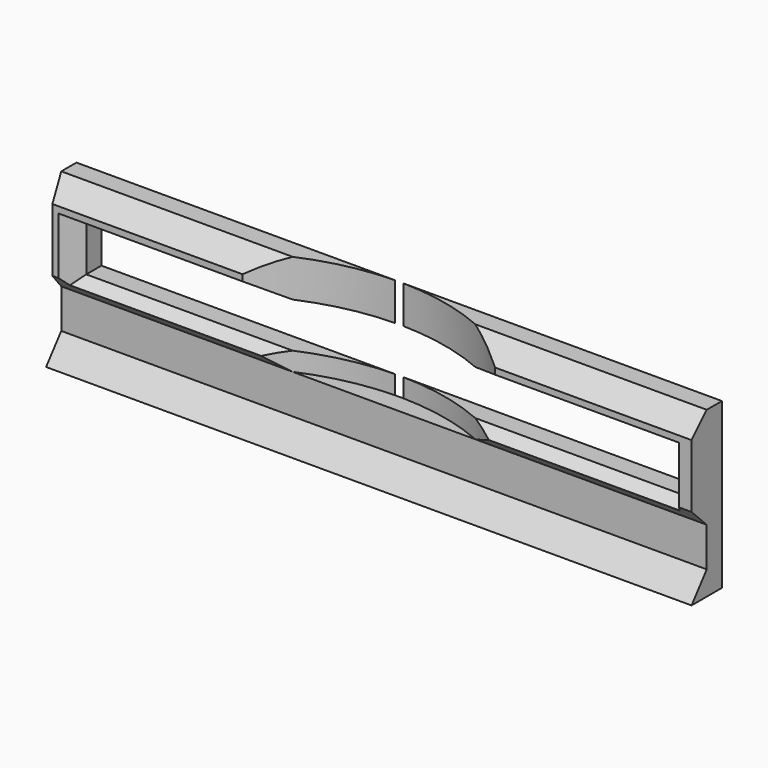
from build123d import *

# Parameters (mm, degrees)
PAD005_DEPTH       = 51
SKETCH018_W        = 11
SKETCH018_H        = 98
POCKET008_DEPTH    = 3
POCKET008_TAPER    = 33
SKETCH019_R        = 36.155756
POCKET009_DEPTH    = 16
CHAMFER003_SIZE2   = 1
CHAMFER003_SIZE    = 3
CHAMFER004_SIZE2   = 1
CHAMFER004_SIZE    = 3
POCKET008_FACE15_W = 94.103554
POCKET008_FACE15_H = 7.103554
POCKET010_DEPTH    = 5


with BuildPart() as part:
    # Sketch017 → Pad005 (new body, symmetric)
    with BuildSketch(Plane.YZ):
        Polygon((-74, 13), (-77, 13), (-80, 10), (-80, 8), (-80, 7.369175), (-80, 2.369175), (-80, 1), (-80, 0), (-77, -3), (-77, -9.20497), (-80, -13), (-74, -13), align=None)
    extrude(amount=PAD005_DEPTH, both=True)

    # Sketch018 (on Face10 of Pad005) → Pocket008 (cut)
    with BuildSketch(Plane(origin=(0, -80, 0), x_dir=(0, 0, -1), z_dir=(0, -1, 0))):
        with Locations((-3.5, 0)):
            Rectangle(SKETCH018_W, SKETCH018_H)
    extrude(amount=-POCKET008_DEPTH, taper=POCKET008_TAPER, mode=Mode.SUBTRACT)

    # Sketch019 (on Face9 of Pocket008) → Pocket009 (cut)
    with BuildSketch(Plane(origin=(0, 0, 13), x_dir=(0, -1, 0), z_dir=(0, 0, 1))):
        with Locations((110.149765, 0)):
            Circle(SKETCH019_R)
    extrude(amount=-POCKET009_DEPTH, mode=Mode.SUBTRACT)

    # Chamfer003
    chamfer003_edges = [part.edges().sort_by_distance(p)[0] for p in [
        (14.433704, -77, 3.5),
    ]]
    chamfer003_side = part.faces().sort_by_distance((10.734675, -75.624333, 5))[0]
    chamfer(chamfer003_edges, length=CHAMFER003_SIZE, length2=CHAMFER003_SIZE2, reference=chamfer003_side)

    # Chamfer004
    chamfer004_edges = [part.edges().sort_by_distance(p)[0] for p in [
        (-51, -80, 5),
    ]]
    chamfer004_side = part.faces().sort_by_distance((-51, -76.532918, 1.044872))[0]
    chamfer(chamfer004_edges, length=CHAMFER004_SIZE, length2=CHAMFER004_SIZE2, reference=chamfer004_side)

    # Pocket008 Face15 → Pocket010 (cut)
    with BuildSketch(Plane(origin=(0, -77, 3.5), x_dir=(-1, 0, 0), z_dir=(0, -1, 0))):
        Rectangle(POCKET008_FACE15_W, POCKET008_FACE15_H)
    extrude(amount=-POCKET010_DEPTH, mode=Mode.SUBTRACT)


solid = part.part
